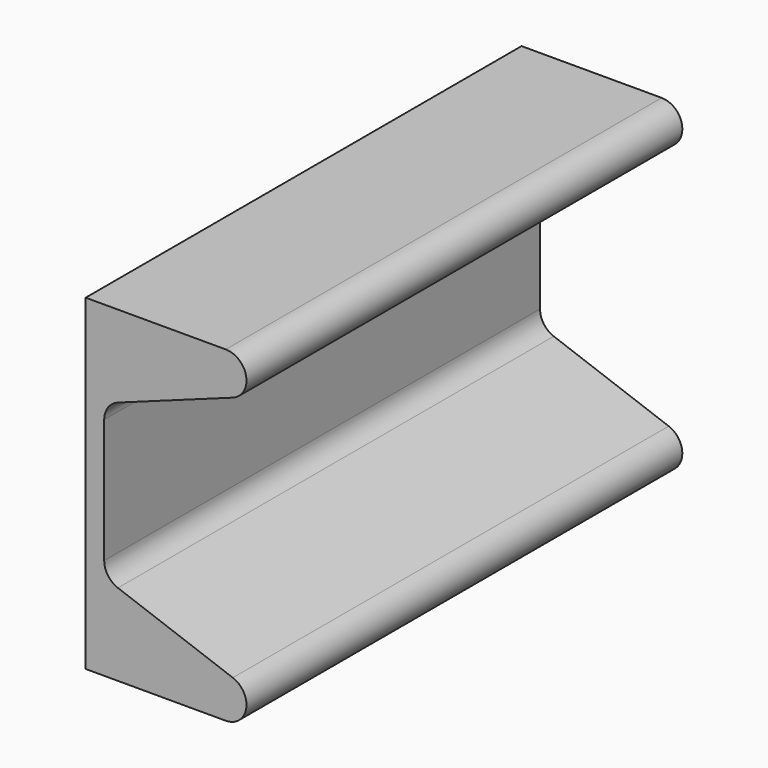
from build123d import *

# Parameters (mm, degrees)
F1_DEPTH = 127


with BuildPart() as f1:
    # F0 (on Front) → F1 (new body)
    with BuildSketch(Plane.XZ):
        with BuildLine():
            Line((0, 38.1), (0, 0))
            Line((0, 0), (32.654806, 0))
            ThreePointArc((32.654806, 0), (37.407898, 3.990299), (34.300957, 9.36257))
            Line((34.300957, 9.36257), (7.514585, 19.082338))
            ThreePointArc((7.514585, 19.082338), (5.196728, 20.858192), (4.318, 23.642784))
            Line((4.318, 23.642784), (4.318, 38.1))
            Line((4.318, 38.1), (4.318, 52.557216))
            ThreePointArc((4.318, 52.557216), (5.196728, 55.341808), (7.514585, 57.117662))
            Line((7.514585, 57.117662), (34.300957, 66.83743))
            ThreePointArc((34.300957, 66.83743), (37.407898, 72.209701), (32.654806, 76.2))
            Line((32.654806, 76.2), (0, 76.2))
            Line((0, 76.2), (0, 38.1))
        make_face()
    extrude(amount=F1_DEPTH)


solid = f1.part
